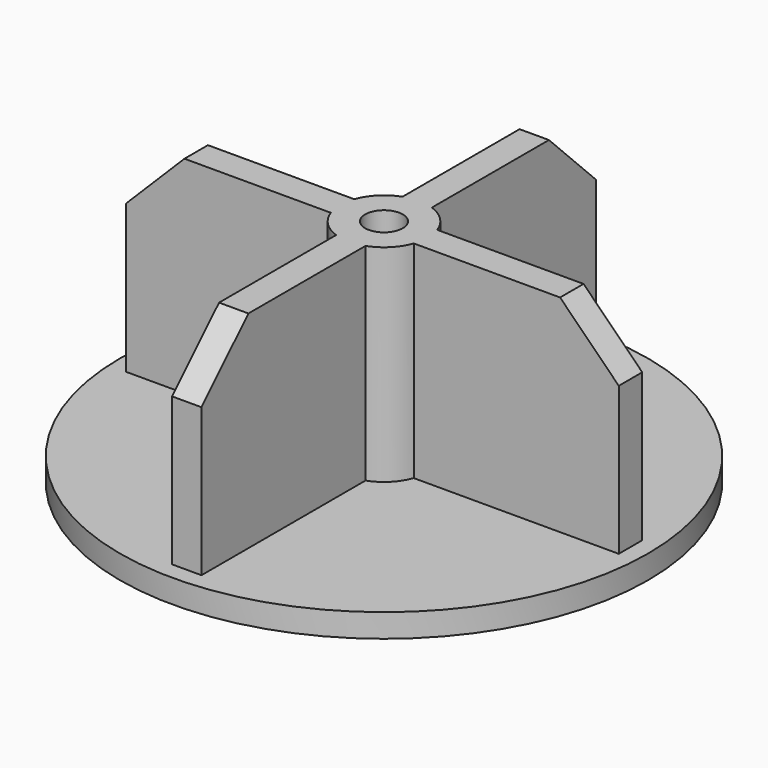
from build123d import *

# Parameters (mm, degrees)
F0_R           = 28.575
F1_DEPTH       = 2.54
F3_DEPTH       = 22.352
F4_SIZE        = 6.35
F5_R           = 4.7625
F6_DEPTH       = 22.352
F8_D           = 4.064
F8_CSINK_D     = 7.9502
F8_CSINK_ANGLE = 82


with BuildPart() as f1:
    # F0 (on Top) → F1 (new body)
    with BuildSketch(Plane.XY):
        Circle(F0_R)
    extrude(amount=F1_DEPTH)

    # F2 (on face) → F3 (join)
    with BuildSketch(Plane.XY.offset(2.54)):
        Polygon((26.67, -1.5875), (26.67, 1.5875), (1.5875, 1.5875), (1.5875, 26.67), (-1.5875, 26.67), (-1.5875, 1.5875), (-26.67, 1.5875), (-26.67, -1.5875), (-1.5875, -1.5875), (-1.5875, -26.67), (1.5875, -26.67), (1.5875, -1.5875), align=None)
    extrude(amount=F3_DEPTH)

    # F4
    f4_edges = [f1.edges().sort_by_distance(p)[0] for p in [
        (0, -26.67, 24.892),
        (26.67, 0, 24.892),
        (0, 26.67, 24.892),
        (-26.67, 0, 24.892),
    ]]
    chamfer(f4_edges, length=F4_SIZE)

    # F5 (on face) → F6 (join, through all)
    with BuildSketch(Plane.XY.offset(24.892)):
        Circle(F5_R)
    extrude(amount=-F6_DEPTH)

    # F8 (through all)
    with Locations(Plane(origin=(0, 0, 0), x_dir=(1, 0, 0), z_dir=(0, 0, -1))):
        with Locations((0, 0)):
            CounterSinkHole(F8_D / 2, F8_CSINK_D / 2, counter_sink_angle=F8_CSINK_ANGLE)


solid = f1.part
